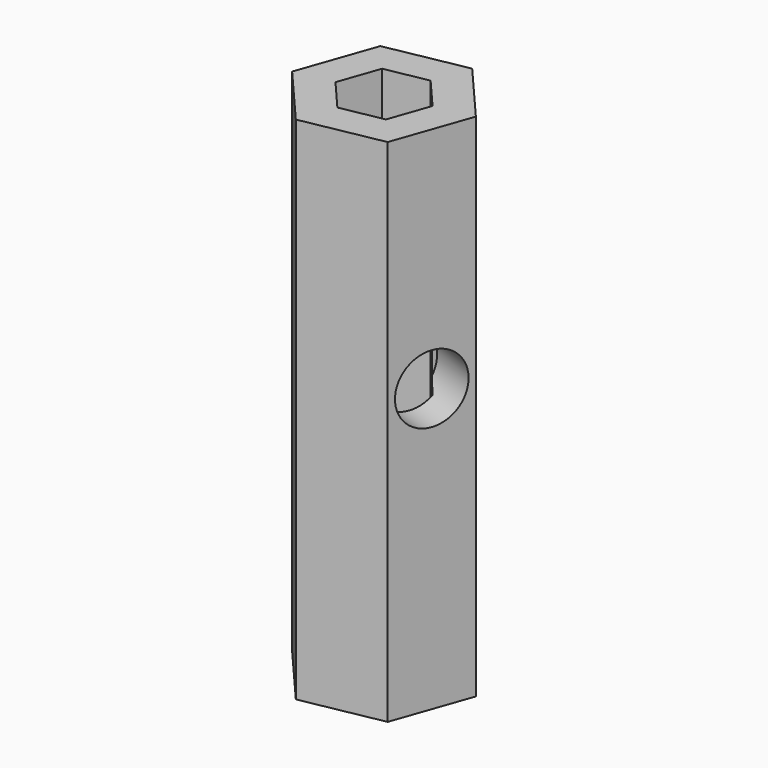
from build123d import *

# Parameters (mm, degrees)
F1_DEPTH = 279.4
F2_T     = -18.1428571429
F3_R     = 18.5632222349
F4_DEPTH = 25.4


with BuildPart() as f1:
    # F0 (on Top) → F1 (new body)
    with BuildSketch(Plane.XY):
        Polygon((43.678151575, 8.2475193234), (14.6965145353, 41.950148516), (-28.9816370398, 33.7026291926), (-43.678151575, -8.2475193234), (-14.6965145353, -41.950148516), (28.9816370398, -33.7026291926), align=None)
    extrude(amount=F1_DEPTH)

    # F2
    f2_openings = [f1.faces().sort_by_distance(p)[0] for p in [
        (0, 0, 279.4),
    ]]
    offset(amount=F2_T, openings=f2_openings)

    # F3 (on face) → F4 (cut)
    with BuildSketch(Plane(origin=(36.3298943074, -12.7275549346, 0), x_dir=(0.3306302483, 0.9437603716, 0), z_dir=(0.9437603716, -0.3306302483, 0))):
        with Locations((0, 154.4703543186)):
            Circle(F3_R)
    extrude(amount=-F4_DEPTH, mode=Mode.SUBTRACT)


solid = f1.part
